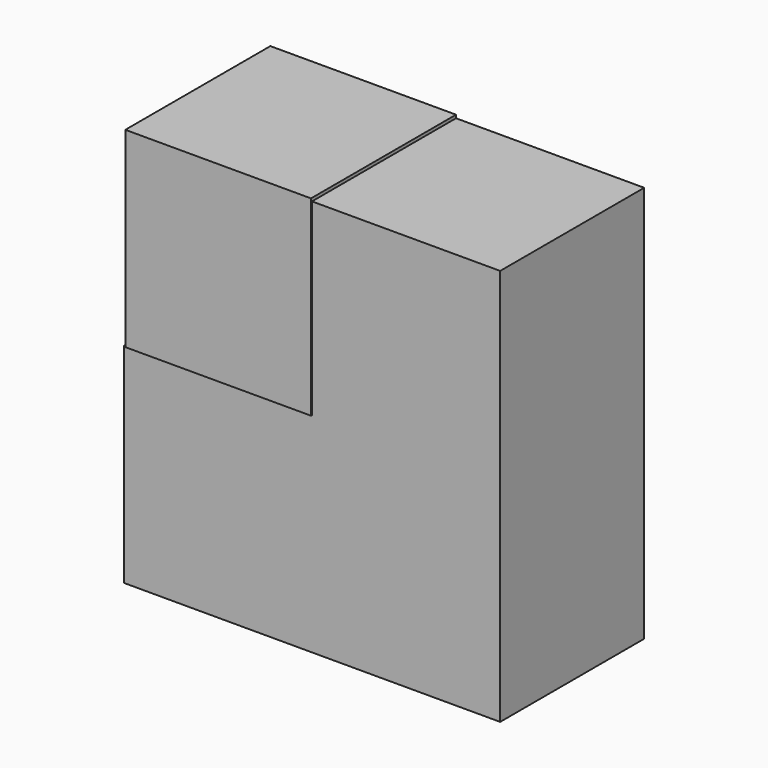
from build123d import *

# Parameters (mm, degrees)
F0_W     = 52.9774986207
F0_H     = 61.4581517875
F1_DEPTH = 55.372
F2_W     = 54.633140564
F2_H     = 56.3007220626
F3_DEPTH = 53.34
F4_W     = 52.9774986207
F4_H     = 61.4581517875
F5_DEPTH = 55.372
F6_W     = 55.372
F6_H     = 52.9774986207
F7_DEPTH = 55.372


with BuildPart() as f1:
    # F0 (on Right) → F1 (new body)
    with BuildSketch(Plane.YZ):
        with Locations((26.4887493104, -30.7290758938)):
            Rectangle(F0_W, F0_H)
    extrude(amount=-F1_DEPTH)

    # F2 (on face) → F3 (join)
    with BuildSketch(Plane(origin=(0, 52.9774986207, 0), x_dir=(-1, 0, 0), z_dir=(0, 1, 0))):
        with Locations((27.316570282, 28.1503610313)):
            Rectangle(F2_W, F2_H)
    extrude(amount=-F3_DEPTH)

    # F4 (on face) → F5 (join)
    with BuildSketch(Plane.YZ):
        with Locations((26.4887493104, -30.7290758938)):
            Rectangle(F4_W, F4_H)
    extrude(amount=F5_DEPTH)

    # F6 (on face) → F7 (join)
    with BuildSketch(Plane.XY):
        with Locations((27.686, 26.4887493104)):
            Rectangle(F6_W, F6_H)
    extrude(amount=F7_DEPTH)


solid = f1.part
